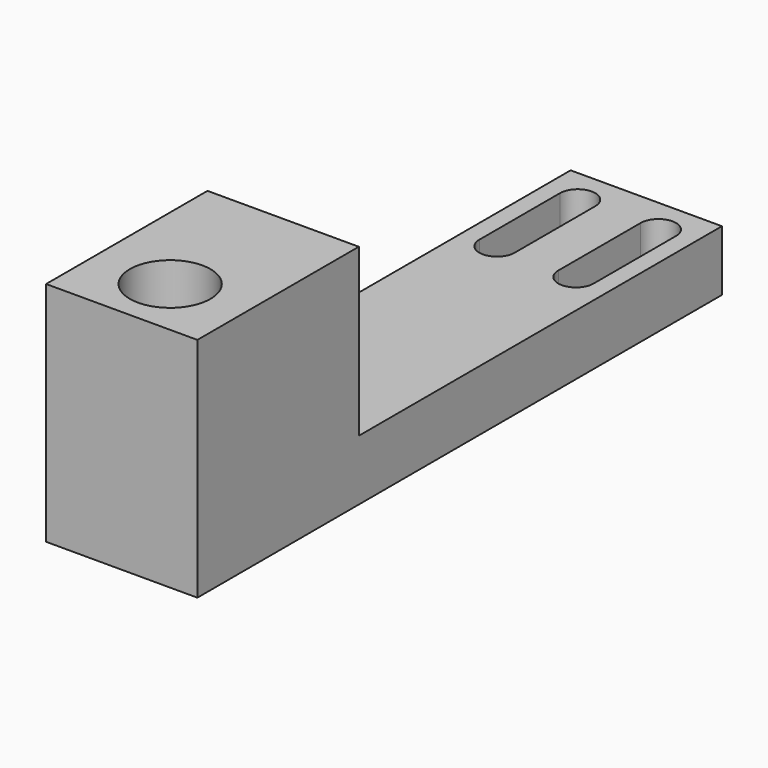
from build123d import *

# Parameters (mm, degrees)
F1_DEPTH = 30
F3_DEPTH = 12
F5_D     = 16


with BuildPart() as f1:
    # F0 (on Right) → F1 (new body)
    with BuildSketch(Plane.YZ):
        Polygon((-20, -22.5), (20, -22.5), (110, -22.5), (110, -10.5), (20, -10.5), (20, 22.5), (-20, 22.5), align=None)
    extrude(amount=F1_DEPTH)

    # F2 (on face) → F3 (cut)
    with BuildSketch(Plane.XY.offset(-10.5)):
        with BuildLine():
            ThreePointArc((10.5, 103), (7, 106.5), (3.5, 103))
            Line((3.5, 103), (3.5, 83))
            ThreePointArc((3.5, 83), (7, 79.5), (10.5, 83))
            Line((10.5, 83), (10.5, 103))
        make_face()
        with BuildLine():
            Line((26.5, 82.575567), (26.5, 103))
            ThreePointArc((26.5, 103), (23, 106.5), (19.5, 103))
            Line((19.5, 103), (19.5, 82.575567))
            ThreePointArc((19.5, 82.575567), (23, 79.075567), (26.5, 82.575567))
        make_face()
    extrude(amount=-F3_DEPTH, mode=Mode.SUBTRACT)

    # F5 (through all)
    with Locations(Plane.XY.offset(22.5)):
        with Locations((15, -8)):
            Hole(F5_D / 2)


solid = f1.part
